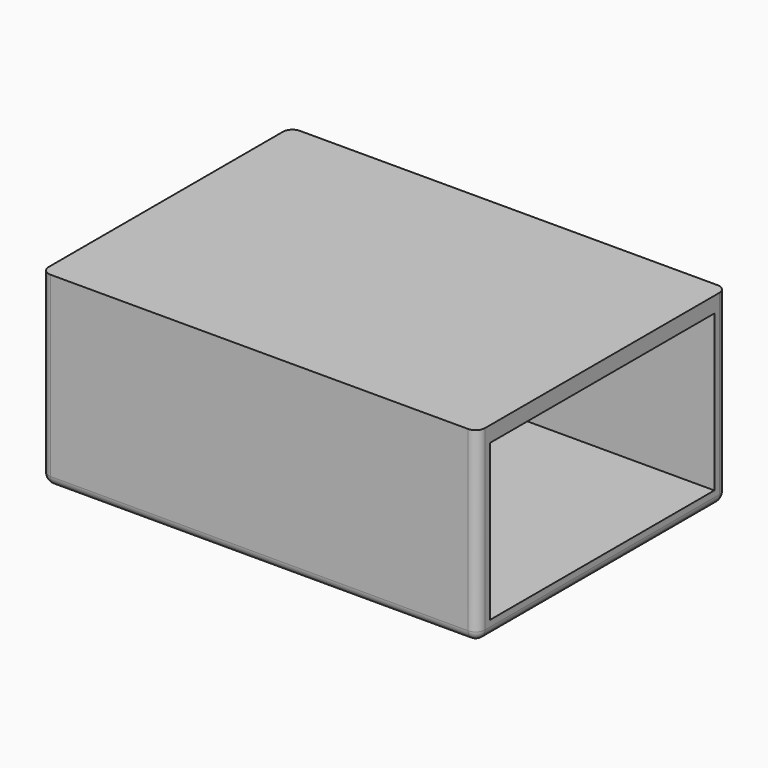
from build123d import *

# Parameters (mm, degrees)
SKETCH_W     = 70
SKETCH_H     = 50
PAD_DEPTH    = 30
SKETCH001_W  = 45
SKETCH001_H  = 25
POCKET_DEPTH = 67
FILLET_R     = 1.5
FILLET001_R  = 1.5
FILLET002_R  = 1.5
FILLET003_R  = 1.5


with BuildPart() as part:
    # Sketch → Pad (new body)
    with BuildSketch(Plane.XY):
        Rectangle(SKETCH_W, SKETCH_H)
    extrude(amount=PAD_DEPTH)

    # Sketch001 (on Face2 of Pad) → Pocket (cut)
    with BuildSketch(Plane.YZ.offset(35)):
        with Locations((0, 15)):
            Rectangle(SKETCH001_W, SKETCH001_H)
    extrude(amount=-POCKET_DEPTH, mode=Mode.SUBTRACT)

    # Fillet
    fillet_edges = [part.edges().sort_by_distance(p)[0] for p in [
        (-35, 0, 0),
    ]]
    fillet(fillet_edges, radius=FILLET_R)

    # Fillet001
    fillet001_edges = [part.edges().sort_by_distance(p)[0] for p in [
        (35, 0, 0),
    ]]
    fillet(fillet001_edges, radius=FILLET001_R)

    # Fillet002
    fillet002_edges = [part.edges().sort_by_distance(p)[0] for p in [
        (0, -25, 0),
    ]]
    fillet(fillet002_edges, radius=FILLET002_R)

    # Fillet003
    fillet003_edges = [part.edges().sort_by_distance(p)[0] for p in [
        (0, 25, 0),
    ]]
    fillet(fillet003_edges, radius=FILLET003_R)


solid = part.part
